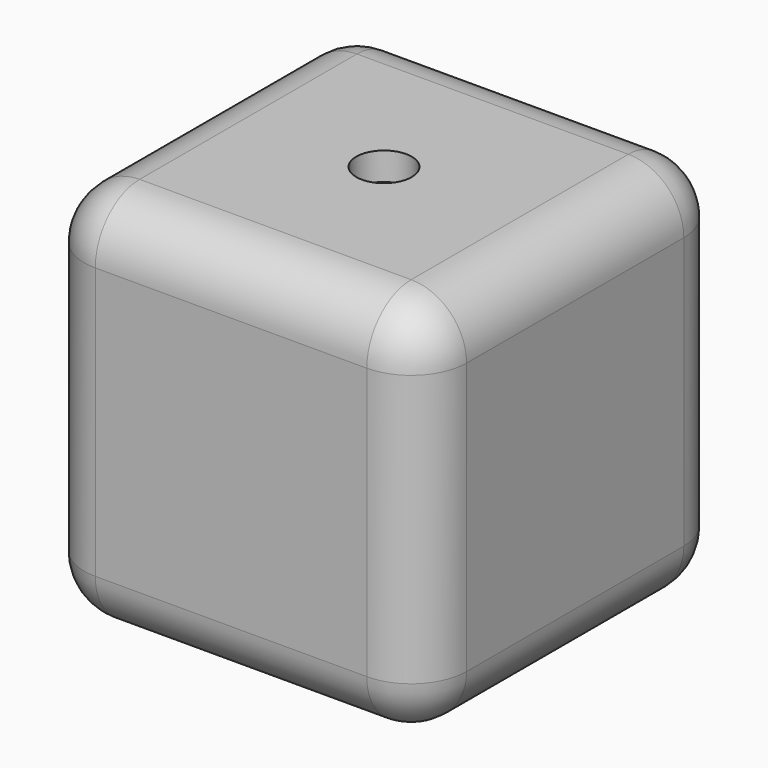
from build123d import *

# Parameters (mm, degrees)
F0_W     = 17.526
F0_H     = 17.526
F1_DEPTH = 17.526
F2_R     = 2.54
F3_R     = 1.27
F4_DEPTH = 1.27


with BuildPart() as f1:
    # F0 (on Top) → F1 (new body)
    with BuildSketch(Plane.XY):
        with Locations((8.763, 8.763)):
            Rectangle(F0_W, F0_H)
    extrude(amount=F1_DEPTH)

    # F2
    f2_edges = [f1.edges().sort_by_distance(p)[0] for p in [
        (0, 8.763, 17.526),
        (8.763, 0, 17.526),
        (17.526, 8.763, 17.526),
        (8.763, 17.526, 17.526),
        (0, 0, 8.763),
        (17.526, 0, 8.763),
        (8.763, 0, 0),
        (17.526, 17.526, 8.763),
        (17.526, 8.763, 0),
        (0, 17.526, 8.763),
        (0, 8.763, 0),
        (8.763, 17.526, 0),
    ]]
    fillet(f2_edges, radius=F2_R)

    # F3 (on face) → F4 (cut)
    with BuildSketch(Plane.XY.offset(17.526)):
        with Locations((8.763, 8.763)):
            Circle(F3_R)
    extrude(amount=-F4_DEPTH, mode=Mode.SUBTRACT)


solid = f1.part
